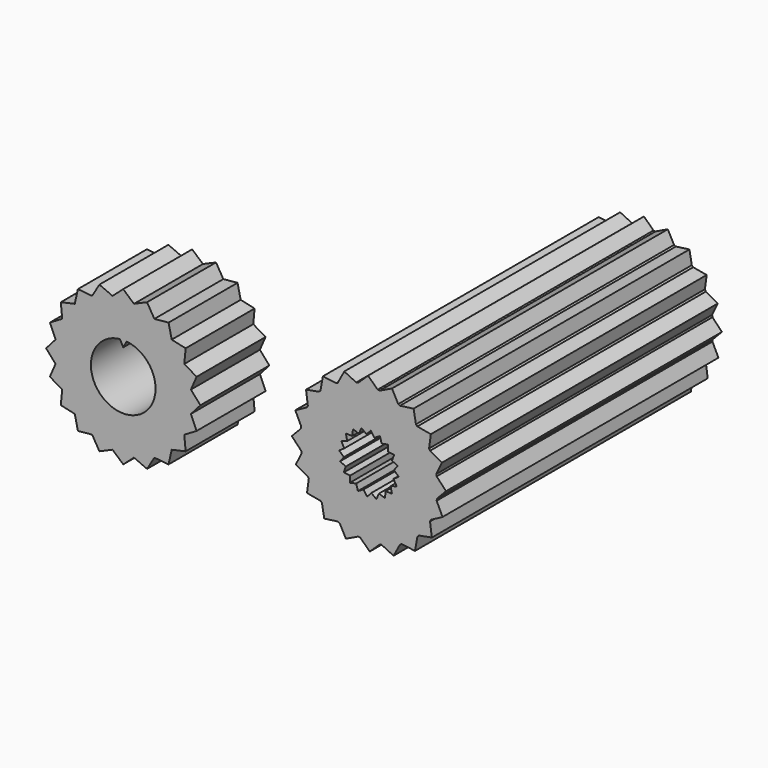
from build123d import *

# Parameters (mm, degrees)
F0_R     = 7.95
F0_R_2   = 3.75
F1_DEPTH = 10
F3_DEPTH = 10
F4_COUNT = 20
F6_DEPTH = 10
F7_R     = 3.5
F8_DEPTH = 40


with BuildPart() as f1:
    # F0 (on Front) → F1 (new body)
    with BuildSketch(Plane.XZ):
        Circle(F0_R)
        Circle(F0_R_2, mode=Mode.SUBTRACT)
    extrude(amount=F1_DEPTH)

    # F2 (on face) → F3 (join, through all)
    with BuildSketch(Plane.XZ.offset(10)):
        with BuildLine():
            ThreePointArc((-1.2436539971, 7.8521223077), (0, 7.95), (1.2436539971, 7.8521223077))
            Line((1.2436539971, 7.8521223077), (0, 8.95))
            Line((0, 8.95), (-1.2436539971, 7.8521223077))
        make_face()
    extrude(amount=-F3_DEPTH)

    # F4: F1 ×20 about axis
    f4_axis = Axis((0, 0, 0), (0, 1, 0))


with BuildPart() as f1_1:
    add(f1.part)
    for i in range(1, F4_COUNT):
        add(f1.part.rotate(f4_axis, i * 360 / F4_COUNT))

    # F5 (on face) → F6 (join, through all)
    with BuildSketch(Plane(origin=(0, 0, 0), x_dir=(-1, 0, 0), z_dir=(0, 1, 0))):
        with BuildLine():
            Line((-0.3919817373, 3.7294571076), (0, 3))
            Line((0, 3), (0.3919817373, 3.7294571076))
            ThreePointArc((0.3919817373, 3.7294571076), (0, 3.75), (-0.3919817373, 3.7294571076))
        make_face()
        with BuildLine():
            Line((0, 4.0647010319), (-0.3919817373, 3.7294571076))
            ThreePointArc((-0.3919817373, 3.7294571076), (0, 3.75), (0.3919817373, 3.7294571076))
            Line((0.3919817373, 3.7294571076), (0, 4.0647010319))
        make_face()
    extrude(amount=-F6_DEPTH)


with BuildPart() as f8:
    # F7 (on Front) → F8 (new body)
    with BuildSketch(Plane.XZ):
        with BuildLine():
            Line((55.3608849582, 11.9182501631), (56.1127359039, 13.3166345025))
            ThreePointArc((56.1127359039, 13.3166345025), (55.0693827065, 12.8753319434), (53.9738981694, 12.5868055633))
            Line((53.9738981694, 12.5868055633), (55.3608849582, 11.9182501631))
        make_face()
        with BuildLine():
            Line((49.8298135257, 11.857577066), (51.2600234097, 12.5469668634))
            ThreePointArc((51.2600234097, 12.5469668634), (50.1565418059, 12.8032132158), (49.1006846472, 13.213700126))
            Line((49.1006846472, 13.213700126), (49.8298135257, 11.857577066))
        make_face()
        with BuildLine():
            ThreePointArc((45.4177023985, 24.0070531797), (46.0024017303, 24.9773420719), (46.7190757868, 25.8546744718))
            Line((46.7190757868, 25.8546744718), (45.2040128991, 25.5802967726))
            Line((45.2040128991, 25.5802967726), (45.4177023985, 24.0070531797))
        make_face()
        with BuildLine():
            Line((52.6001540792, 11.4498957879), (53.7473313459, 12.5475036067))
            ThreePointArc((53.7473313459, 12.5475036067), (52.6186734984, 12.4502138014), (51.4876462361, 12.5143322465))
            Line((51.4876462361, 12.5143322465), (52.6001540792, 11.4498957879))
        make_face()
        with BuildLine():
            ThreePointArc((58.122268646, 26.0220692188), (58.8643861896, 25.1661513521), (59.4773144225, 24.2134431993))
            Line((59.4773144225, 24.2134431993), (59.6845459036, 25.7391410032))
            Line((59.6845459036, 25.7391410032), (58.122268646, 26.0220692188))
        make_face()
        with BuildLine():
            Line((59.7999529925, 15.2184179473), (59.5862634931, 16.7916615402))
            ThreePointArc((59.5862634931, 16.7916615402), (59.0015641613, 15.8213726479), (58.2848901048, 14.9440402481))
            Line((58.2848901048, 14.9440402481), (59.7999529925, 15.2184179473))
        make_face()
        with BuildLine():
            ThreePointArc((44.6495924492, 21.6413168961), (44.9058388016, 22.7447984999), (45.3163257119, 23.8006556586))
            Line((45.3163257119, 23.8006556586), (43.9602026519, 23.07152678))
            Line((43.9602026519, 23.07152678), (44.6495924492, 21.6413168961))
        make_face()
        with BuildLine():
            Line((44.020875749, 17.5404553475), (45.4192600883, 16.7886044019))
            ThreePointArc((45.4192600883, 16.7886044019), (44.9779575293, 17.8319575992), (44.6894311492, 18.9274421364))
            Line((44.6894311492, 18.9274421364), (44.020875749, 17.5404553475))
        make_face()
        with BuildLine():
            Line((61.0437632398, 17.7271879398), (60.3543734424, 19.1573978238))
            ThreePointArc((60.3543734424, 19.1573978238), (60.09812709, 18.05391622), (59.6876401797, 16.9980590613))
            Line((59.6876401797, 16.9980590613), (61.0437632398, 17.7271879398))
        make_face()
        with BuildLine():
            Line((47.3210435331, 13.1013873133), (48.8942871261, 13.3150768127))
            ThreePointArc((48.8942871261, 13.3150768127), (47.9239982338, 13.8997761445), (47.046665834, 14.616450201))
            Line((47.046665834, 14.616450201), (47.3210435331, 13.1013873133))
        make_face()
        with BuildLine():
            ThreePointArc((59.5847058033, 24.010110318), (60.0260083624, 22.9667571206), (60.3145347424, 21.8712725835))
            Line((60.3145347424, 21.8712725835), (60.9830901426, 23.2582593723))
            Line((60.9830901426, 23.2582593723), (59.5847058033, 24.010110318))
        make_face()
        with BuildLine():
            ThreePointArc((53.7439424819, 28.2517478565), (54.8474240858, 27.9955015041), (55.9032812445, 27.5850145939))
            Line((55.9032812445, 27.5850145939), (55.1741523659, 28.9411376539))
            Line((55.1741523659, 28.9411376539), (53.7439424819, 28.2517478565))
        make_face()
        with BuildLine():
            ThreePointArc((51.2566345457, 28.2512111132), (52.3852923933, 28.3485009185), (53.5163196556, 28.2843824734))
            Line((53.5163196556, 28.2843824734), (52.4038118124, 29.3488189319))
            Line((52.4038118124, 29.3488189319), (51.2566345457, 28.2512111132))
        make_face()
        with BuildLine():
            Line((57.8417665891, 13.2167944021), (58.1246948047, 14.7790716598))
            ThreePointArc((58.1246948047, 14.7790716598), (57.268776938, 14.0369541162), (56.3160687852, 13.4240258832))
            Line((56.3160687852, 13.4240258832), (57.8417665891, 13.2167944021))
        make_face()
        with BuildLine():
            ThreePointArc((56.1096787655, 27.4836379072), (57.0799676578, 26.8989385754), (57.9573000577, 26.1822645189))
            Line((57.9573000577, 26.1822645189), (57.6829223585, 27.6973274066))
            Line((57.6829223585, 27.6973274066), (56.1096787655, 27.4836379072))
        make_face()
        with BuildLine():
            Line((45.319419988, 15.0595737167), (46.8816972456, 14.776645501))
            ThreePointArc((46.8816972456, 14.776645501), (46.1395797021, 15.6325633678), (45.5266514691, 16.5852715205))
            Line((45.5266514691, 16.5852715205), (45.319419988, 15.0595737167))
        make_face()
        with BuildLine():
            ThreePointArc((44.6501291926, 19.1540089598), (44.5528393872, 20.2826668074), (44.6169578324, 21.4136940697))
            Line((44.6169578324, 21.4136940697), (43.5525213738, 20.3011862265))
            Line((43.5525213738, 20.3011862265), (44.6501291926, 19.1540089598))
        make_face()
        with BuildLine():
            ThreePointArc((46.8792710869, 26.0196430601), (47.7351889536, 26.7617606037), (48.6878971064, 27.3746888366))
            Line((48.6878971064, 27.3746888366), (47.1621993025, 27.5819203178))
            Line((47.1621993025, 27.5819203178), (46.8792710869, 26.0196430601))
        make_face()
        with BuildLine():
            ThreePointArc((48.8912299877, 27.4820802174), (49.9345831851, 27.9233827765), (51.0300677222, 28.2119091565))
            Line((51.0300677222, 28.2119091565), (49.6430809334, 28.8804645567))
            Line((49.6430809334, 28.8804645567), (48.8912299877, 27.4820802174))
        make_face()
        with BuildLine():
            Line((60.2735524234, 21.7286157817), (60.3538366991, 21.64470576))
            ThreePointArc((60.3538366991, 21.64470576), (60.3350049322, 21.7581312782), (60.3145347424, 21.8712725835))
            Line((60.3145347424, 21.8712725835), (60.2432750844, 21.7234371099))
            Line((60.2432750844, 21.7234371099), (59.4824212971, 24.0651042854))
            Line((59.4824212971, 24.0651042854), (59.5847058033, 24.010110318))
            ThreePointArc((59.5847058033, 24.010110318), (59.531745316, 24.1121650602), (59.4773144225, 24.2134431993))
            Line((59.4773144225, 24.2134431993), (59.4552261341, 24.0508228635))
            Line((59.4552261341, 24.0508228635), (58.0079962294, 26.0427639392))
            Line((58.0079962294, 26.0427639392), (58.122268646, 26.0220692188))
            ThreePointArc((58.122268646, 26.0220692188), (58.0403635797, 26.1027633558), (57.9573000577, 26.1822645189))
            Line((57.9573000577, 26.1822645189), (57.9865452945, 26.0207777323))
            Line((57.9865452945, 26.0207777323), (55.9946042188, 27.4680076371))
            Line((55.9946042188, 27.4680076371), (56.1096787655, 27.4836379072))
            ThreePointArc((56.1096787655, 27.4836379072), (56.0068465589, 27.5350725346), (55.9032812445, 27.5850145939))
            Line((55.9032812445, 27.5850145939), (55.9809972789, 27.4404688084))
            Line((55.9809972789, 27.4404688084), (53.6393301035, 28.2013225957))
            Line((53.6393301035, 28.2013225957), (53.7439424819, 28.2517478565))
            ThreePointArc((53.7439424819, 28.2517478565), (53.6302490677, 28.2688881946), (53.5163196556, 28.2843824734))
            Line((53.5163196556, 28.2843824734), (53.6348991008, 28.1709268375))
            Line((53.6348991008, 28.1709268375), (51.172724524, 28.1709268375))
            Line((51.172724524, 28.1709268375), (51.2566345457, 28.2512111132))
            ThreePointArc((51.2566345457, 28.2512111132), (51.1432090275, 28.2323793463), (51.0300677222, 28.2119091565))
            Line((51.0300677222, 28.2119091565), (51.1779031958, 28.1406494985))
            Line((51.1779031958, 28.1406494985), (48.8362360204, 27.3797957112))
            Line((48.8362360204, 27.3797957112), (48.8912299877, 27.4820802174))
            ThreePointArc((48.8912299877, 27.4820802174), (48.7891752455, 27.4291197301), (48.6878971064, 27.3746888366))
            Line((48.6878971064, 27.3746888366), (48.8505174423, 27.3526005482))
            Line((48.8505174423, 27.3526005482), (46.8585763666, 25.9053706435))
            Line((46.8585763666, 25.9053706435), (46.8792710869, 26.0196430601))
            ThreePointArc((46.8792710869, 26.0196430601), (46.7985769499, 25.9377379938), (46.7190757868, 25.8546744718))
            Line((46.7190757868, 25.8546744718), (46.8805625734, 25.8839197086))
            Line((46.8805625734, 25.8839197086), (45.4333326686, 23.8919786329))
            Line((45.4333326686, 23.8919786329), (45.4177023985, 24.0070531797))
            ThreePointArc((45.4177023985, 24.0070531797), (45.3662677711, 23.904220973), (45.3163257119, 23.8006556586))
            Line((45.3163257119, 23.8006556586), (45.4608714974, 23.8783716931))
            Line((45.4608714974, 23.8783716931), (44.70001771, 21.5367045176))
            Line((44.70001771, 21.5367045176), (44.6495924492, 21.6413168961))
            ThreePointArc((44.6495924492, 21.6413168961), (44.6324521111, 21.5276234818), (44.6169578324, 21.4136940697))
            Line((44.6169578324, 21.4136940697), (44.7304134682, 21.5322735149))
            Line((44.7304134682, 21.5322735149), (44.7304134682, 19.0700989381))
            Line((44.7304134682, 19.0700989381), (44.6501291926, 19.1540089598))
            ThreePointArc((44.6501291926, 19.1540089598), (44.6689609594, 19.0405834416), (44.6894311492, 18.9274421364))
            Line((44.6894311492, 18.9274421364), (44.7606908072, 19.07527761))
            Line((44.7606908072, 19.07527761), (45.5215445945, 16.7336104345))
            Line((45.5215445945, 16.7336104345), (45.4192600883, 16.7886044019))
            ThreePointArc((45.4192600883, 16.7886044019), (45.4722205757, 16.6865496596), (45.5266514691, 16.5852715205))
            Line((45.5266514691, 16.5852715205), (45.5487397575, 16.7478918564))
            Line((45.5487397575, 16.7478918564), (46.9959696623, 14.7559507807))
            Line((46.9959696623, 14.7559507807), (46.8816972456, 14.776645501))
            ThreePointArc((46.8816972456, 14.776645501), (46.9636023119, 14.695951364), (47.046665834, 14.616450201))
            Line((47.046665834, 14.616450201), (47.0174205972, 14.7779369875))
            Line((47.0174205972, 14.7779369875), (49.0093616729, 13.3307070828))
            Line((49.0093616729, 13.3307070828), (48.8942871261, 13.3150768127))
            ThreePointArc((48.8942871261, 13.3150768127), (48.9971193328, 13.2636421853), (49.1006846472, 13.213700126))
            Line((49.1006846472, 13.213700126), (49.0229686127, 13.3582459115))
            Line((49.0229686127, 13.3582459115), (51.3646357882, 12.5973921242))
            Line((51.3646357882, 12.5973921242), (51.2600234097, 12.5469668634))
            ThreePointArc((51.2600234097, 12.5469668634), (51.3737168239, 12.5298265252), (51.4876462361, 12.5143322465))
            Line((51.4876462361, 12.5143322465), (51.3690667909, 12.6277878823))
            Line((51.3690667909, 12.6277878823), (53.8312413676, 12.6277878823))
            Line((53.8312413676, 12.6277878823), (53.7473313459, 12.5475036067))
            ThreePointArc((53.7473313459, 12.5475036067), (53.8607568641, 12.5663353736), (53.9738981694, 12.5868055633))
            Line((53.9738981694, 12.5868055633), (53.8260626958, 12.6580652213))
            Line((53.8260626958, 12.6580652213), (56.1677298712, 13.4189190087))
            Line((56.1677298712, 13.4189190087), (56.1127359039, 13.3166345025))
            ThreePointArc((56.1127359039, 13.3166345025), (56.2147906461, 13.3695949898), (56.3160687852, 13.4240258832))
            Line((56.3160687852, 13.4240258832), (56.1534484494, 13.4461141716))
            Line((56.1534484494, 13.4461141716), (58.1453895251, 14.8933440764))
            Line((58.1453895251, 14.8933440764), (58.1246948047, 14.7790716598))
            ThreePointArc((58.1246948047, 14.7790716598), (58.2053889417, 14.860976726), (58.2848901048, 14.9440402481))
            Line((58.2848901048, 14.9440402481), (58.1234033182, 14.9147950113))
            Line((58.1234033182, 14.9147950113), (59.570633223, 16.906736087))
            Line((59.570633223, 16.906736087), (59.5862634931, 16.7916615402))
            ThreePointArc((59.5862634931, 16.7916615402), (59.6376981205, 16.8944937469), (59.6876401797, 16.9980590613))
            Line((59.6876401797, 16.9980590613), (59.5430943943, 16.9203430268))
            Line((59.5430943943, 16.9203430268), (60.3039481816, 19.2620102023))
            Line((60.3039481816, 19.2620102023), (60.3543734424, 19.1573978238))
            ThreePointArc((60.3543734424, 19.1573978238), (60.3715137805, 19.271091238), (60.3870080592, 19.3850206502))
            Line((60.3870080592, 19.3850206502), (60.2735524234, 19.266441205))
            Line((60.2735524234, 19.266441205), (60.2735524234, 21.7286157817))
        make_face()
        with Locations((52.5019829458, 20.3993573599)):
            Circle(F7_R, mode=Mode.SUBTRACT)
        with BuildLine():
            ThreePointArc((60.3538366991, 21.64470576), (60.4274084025, 21.0239622998), (60.4519829458, 20.3993573599))
            ThreePointArc((60.4519829458, 20.3993573599), (60.4357225953, 19.8911495538), (60.3870080592, 19.3850206502))
            Line((60.3870080592, 19.3850206502), (61.4514445178, 20.4975284934))
            Line((61.4514445178, 20.4975284934), (60.3538366991, 21.64470576))
        make_face()
        with BuildLine():
            Line((46.8805625734, 25.8839197086), (46.7190757868, 25.8546744718))
            ThreePointArc((46.7190757868, 25.8546744718), (46.0024017303, 24.9773420719), (45.4177023985, 24.0070531797))
            Line((45.4177023985, 24.0070531797), (45.4333326686, 23.8919786329))
            Line((45.4333326686, 23.8919786329), (46.8805625734, 25.8839197086))
        make_face()
        with BuildLine():
            Line((59.4552261341, 24.0508228635), (59.4773144225, 24.2134431993))
            ThreePointArc((59.4773144225, 24.2134431993), (58.8643861896, 25.1661513521), (58.122268646, 26.0220692188))
            Line((58.122268646, 26.0220692188), (58.0079962294, 26.0427639392))
            Line((58.0079962294, 26.0427639392), (59.4552261341, 24.0508228635))
        make_face()
        with BuildLine():
            Line((51.1779031958, 28.1406494985), (51.0300677222, 28.2119091565))
            ThreePointArc((51.0300677222, 28.2119091565), (49.9345831851, 27.9233827765), (48.8912299877, 27.4820802174))
            Line((48.8912299877, 27.4820802174), (48.8362360204, 27.3797957112))
            Line((48.8362360204, 27.3797957112), (51.1779031958, 28.1406494985))
        make_face()
        with BuildLine():
            Line((45.4608714974, 23.8783716931), (45.3163257119, 23.8006556586))
            ThreePointArc((45.3163257119, 23.8006556586), (44.9058388016, 22.7447984999), (44.6495924492, 21.6413168961))
            Line((44.6495924492, 21.6413168961), (44.70001771, 21.5367045176))
            Line((44.70001771, 21.5367045176), (45.4608714974, 23.8783716931))
        make_face()
        with BuildLine():
            Line((44.7304134682, 21.5322735149), (44.6169578324, 21.4136940697))
            ThreePointArc((44.6169578324, 21.4136940697), (44.5528393872, 20.2826668074), (44.6501291926, 19.1540089598))
            Line((44.6501291926, 19.1540089598), (44.7304134682, 19.0700989381))
            Line((44.7304134682, 19.0700989381), (44.7304134682, 21.5322735149))
        make_face()
        with BuildLine():
            ThreePointArc((56.3160687852, 13.4240258832), (57.268776938, 14.0369541162), (58.1246948047, 14.7790716598))
            Line((58.1246948047, 14.7790716598), (58.1453895251, 14.8933440764))
            Line((58.1453895251, 14.8933440764), (56.1534484494, 13.4461141716))
            Line((56.1534484494, 13.4461141716), (56.3160687852, 13.4240258832))
        make_face()
        with BuildLine():
            Line((60.2432750844, 21.7234371099), (60.3145347424, 21.8712725835))
            ThreePointArc((60.3145347424, 21.8712725835), (60.0260083624, 22.9667571206), (59.5847058033, 24.010110318))
            Line((59.5847058033, 24.010110318), (59.4824212971, 24.0651042854))
            Line((59.4824212971, 24.0651042854), (60.2432750844, 21.7234371099))
        make_face()
        with BuildLine():
            ThreePointArc((49.1006846472, 13.213700126), (50.1565418059, 12.8032132158), (51.2600234097, 12.5469668634))
            Line((51.2600234097, 12.5469668634), (51.3646357882, 12.5973921242))
            Line((51.3646357882, 12.5973921242), (49.0229686127, 13.3582459115))
            Line((49.0229686127, 13.3582459115), (49.1006846472, 13.213700126))
        make_face()
        with BuildLine():
            ThreePointArc((44.6894311492, 18.9274421364), (44.9779575293, 17.8319575992), (45.4192600883, 16.7886044019))
            Line((45.4192600883, 16.7886044019), (45.5215445945, 16.7336104345))
            Line((45.5215445945, 16.7336104345), (44.7606908072, 19.07527761))
            Line((44.7606908072, 19.07527761), (44.6894311492, 18.9274421364))
        make_face()
        with BuildLine():
            Line((57.9865452945, 26.0207777323), (57.9573000577, 26.1822645189))
            ThreePointArc((57.9573000577, 26.1822645189), (57.0799676578, 26.8989385754), (56.1096787655, 27.4836379072))
            Line((56.1096787655, 27.4836379072), (55.9946042188, 27.4680076371))
            Line((55.9946042188, 27.4680076371), (57.9865452945, 26.0207777323))
        make_face()
        with BuildLine():
            ThreePointArc((45.5266514691, 16.5852715205), (46.1395797021, 15.6325633678), (46.8816972456, 14.776645501))
            Line((46.8816972456, 14.776645501), (46.9959696623, 14.7559507807))
            Line((46.9959696623, 14.7559507807), (45.5487397575, 16.7478918564))
            Line((45.5487397575, 16.7478918564), (45.5266514691, 16.5852715205))
        make_face()
        with BuildLine():
            ThreePointArc((59.6876401797, 16.9980590613), (60.09812709, 18.05391622), (60.3543734424, 19.1573978238))
            Line((60.3543734424, 19.1573978238), (60.3039481816, 19.2620102023))
            Line((60.3039481816, 19.2620102023), (59.5430943943, 16.9203430268))
            Line((59.5430943943, 16.9203430268), (59.6876401797, 16.9980590613))
        make_face()
        with BuildLine():
            ThreePointArc((53.9738981694, 12.5868055633), (55.0693827065, 12.8753319434), (56.1127359039, 13.3166345025))
            Line((56.1127359039, 13.3166345025), (56.1677298712, 13.4189190087))
            Line((56.1677298712, 13.4189190087), (53.8260626958, 12.6580652213))
            Line((53.8260626958, 12.6580652213), (53.9738981694, 12.5868055633))
        make_face()
        with BuildLine():
            Line((55.9809972789, 27.4404688084), (55.9032812445, 27.5850145939))
            ThreePointArc((55.9032812445, 27.5850145939), (54.8474240858, 27.9955015041), (53.7439424819, 28.2517478565))
            Line((53.7439424819, 28.2517478565), (53.6393301035, 28.2013225957))
            Line((53.6393301035, 28.2013225957), (55.9809972789, 27.4404688084))
        make_face()
        with BuildLine():
            Line((48.8505174423, 27.3526005482), (48.6878971064, 27.3746888366))
            ThreePointArc((48.6878971064, 27.3746888366), (47.7351889536, 26.7617606037), (46.8792710869, 26.0196430601))
            Line((46.8792710869, 26.0196430601), (46.8585763666, 25.9053706435))
            Line((46.8585763666, 25.9053706435), (48.8505174423, 27.3526005482))
        make_face()
        with BuildLine():
            ThreePointArc((47.046665834, 14.616450201), (47.9239982338, 13.8997761445), (48.8942871261, 13.3150768127))
            Line((48.8942871261, 13.3150768127), (49.0093616729, 13.3307070828))
            Line((49.0093616729, 13.3307070828), (47.0174205972, 14.7779369875))
            Line((47.0174205972, 14.7779369875), (47.046665834, 14.616450201))
        make_face()
        with BuildLine():
            ThreePointArc((58.2848901048, 14.9440402481), (59.0015641613, 15.8213726479), (59.5862634931, 16.7916615402))
            Line((59.5862634931, 16.7916615402), (59.570633223, 16.906736087))
            Line((59.570633223, 16.906736087), (58.1234033182, 14.9147950113))
            Line((58.1234033182, 14.9147950113), (58.2848901048, 14.9440402481))
        make_face()
        with BuildLine():
            Line((53.6348991008, 28.1709268375), (53.5163196556, 28.2843824734))
            ThreePointArc((53.5163196556, 28.2843824734), (52.3852923933, 28.3485009185), (51.2566345457, 28.2512111132))
            Line((51.2566345457, 28.2512111132), (51.172724524, 28.1709268375))
            Line((51.172724524, 28.1709268375), (53.6348991008, 28.1709268375))
        make_face()
        with BuildLine():
            ThreePointArc((60.3870080592, 19.3850206502), (60.4357225953, 19.8911495538), (60.4519829458, 20.3993573599))
            ThreePointArc((60.4519829458, 20.3993573599), (60.4274084025, 21.0239622998), (60.3538366991, 21.64470576))
            Line((60.3538366991, 21.64470576), (60.2735524234, 21.7286157817))
            Line((60.2735524234, 21.7286157817), (60.2735524234, 19.266441205))
            Line((60.2735524234, 19.266441205), (60.3870080592, 19.3850206502))
        make_face()
        with BuildLine():
            ThreePointArc((51.4876462361, 12.5143322465), (52.6186734984, 12.4502138014), (53.7473313459, 12.5475036067))
            Line((53.7473313459, 12.5475036067), (53.8312413676, 12.6277878823))
            Line((53.8312413676, 12.6277878823), (51.3690667909, 12.6277878823))
            Line((51.3690667909, 12.6277878823), (51.4876462361, 12.5143322465))
        make_face()
        with Locations((52.5019829458, 20.3993573599)):
            Circle(F7_R)
        Polygon((51.3365908516, 23.0774030649), (51.6407328292, 23.7546993263), (52.2211908351, 23.3064561408), (52.7197430998, 23.8566181239), (53.1332767068, 23.250942133), (53.7774374893, 23.6201161497), (53.9835671467, 22.9162951396), (54.7102815015, 23.0683438649), (54.6888298022, 22.3352727397), (55.4269618649, 22.255312585), (55.1800286507, 21.5647494541), (55.8573249122, 21.2606074765), (55.4090817266, 20.6801494706), (55.9592437097, 20.1815972059), (55.3535677189, 19.7680635989), (55.7227417356, 19.1239028164), (55.0189207255, 18.9177731591), (55.1709694507, 18.1910588043), (54.4378983256, 18.2125105036), (54.3579381709, 17.4743784409), (53.66737504, 17.721311655), (53.3632330624, 17.0440153936), (52.7827750565, 17.4922585791), (52.2842227918, 16.942096596), (51.8706891848, 17.5477725868), (51.2265284023, 17.1785985702), (51.0203987449, 17.8824195803), (50.2936843902, 17.730370855), (50.3151360894, 18.4634419802), (49.5770040268, 18.5434021349), (49.8239372409, 19.2339652657), (49.1466409795, 19.5381072434), (49.594884165, 20.1185652492), (49.0447221819, 20.6171175139), (49.6503981727, 21.0306511209), (49.281224156, 21.6748119034), (49.9850451662, 21.8809415608), (49.8329964409, 22.6076559156), (50.566067566, 22.5862042163), (50.6460277207, 23.324336279), align=None, mode=Mode.SUBTRACT)
    extrude(amount=F8_DEPTH)


solid = Compound([f1_1.part, f8.part])
